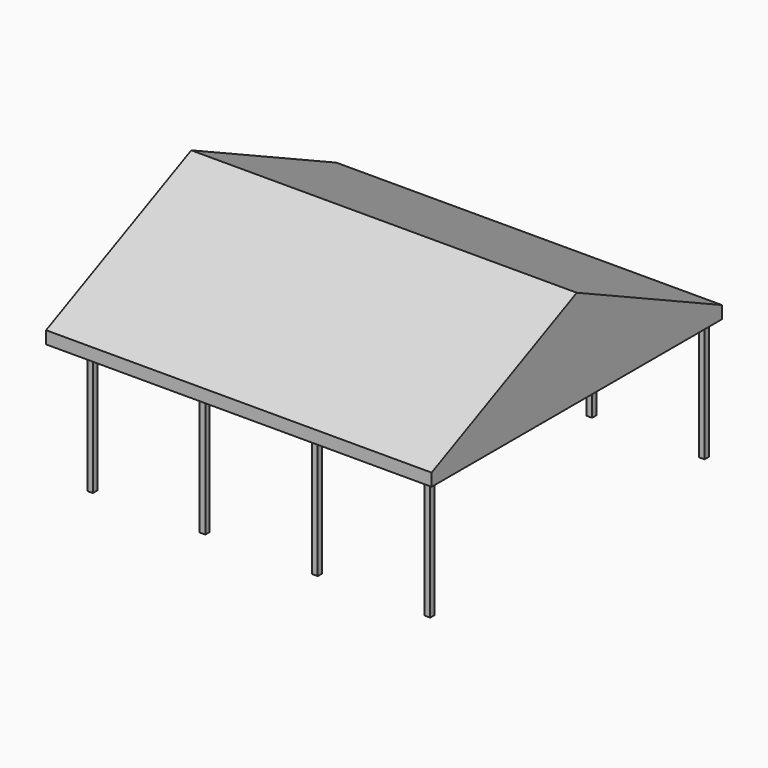
from build123d import *

# Parameters (mm, degrees)
F0_W          = 115
F0_H          = 115
F2_DEPTH      = 2500
F1_W          = 8000
F1_H          = 7530
F4_DEPTH      = 260
F3_W          = 7530
F3_H          = 260
F5_DEPTH      = 207.5
F5_DEPTH_BACK = 7792.5


with BuildPart() as f2:
    # F0 (on Top) → F2 (new body)
    with BuildSketch(Plane.XY):
        with Locations((0, 57.5)):
            Rectangle(F0_W, F0_H)
        with Locations((-2333.3, 57.5)):
            Rectangle(F0_W, F0_H)
        with Locations((-4666.7, 57.5)):
            Rectangle(F0_W, F0_H)
        with Locations((-7000, 57.5)):
            Rectangle(F0_W, F0_H)
        with Locations((-4666.7, -7057.5)):
            Rectangle(F0_W, F0_H)
        with Locations((0, -7057.5)):
            Rectangle(F0_W, F0_H)
        with Locations((-2333.3, -7057.5)):
            Rectangle(F0_W, F0_H)
        with Locations((-7000, -7057.5)):
            Rectangle(F0_W, F0_H)
    extrude(amount=-F2_DEPTH)


with BuildPart() as f4:
    # F1 (on Top) → F4 (new body)
    with BuildSketch(Plane.XY):
        with Locations((-3792.5, -3500)):
            Rectangle(F1_W, F1_H)
    extrude(amount=F4_DEPTH)


with BuildPart() as f5:
    # F3 (on Right) → F5 (new body, two sides)
    with BuildSketch(Plane.YZ) as f5_sk:
        with Locations((-3500, 130)):
            Rectangle(F3_W, F3_H)
        Polygon((-3500, 2015.648333), (-7265, 260), (265, 260), align=None)
    extrude(amount=F5_DEPTH)
    extrude(f5_sk.sketch, amount=-F5_DEPTH_BACK)


solid = Compound([f2.part, f4.part, f5.part])
